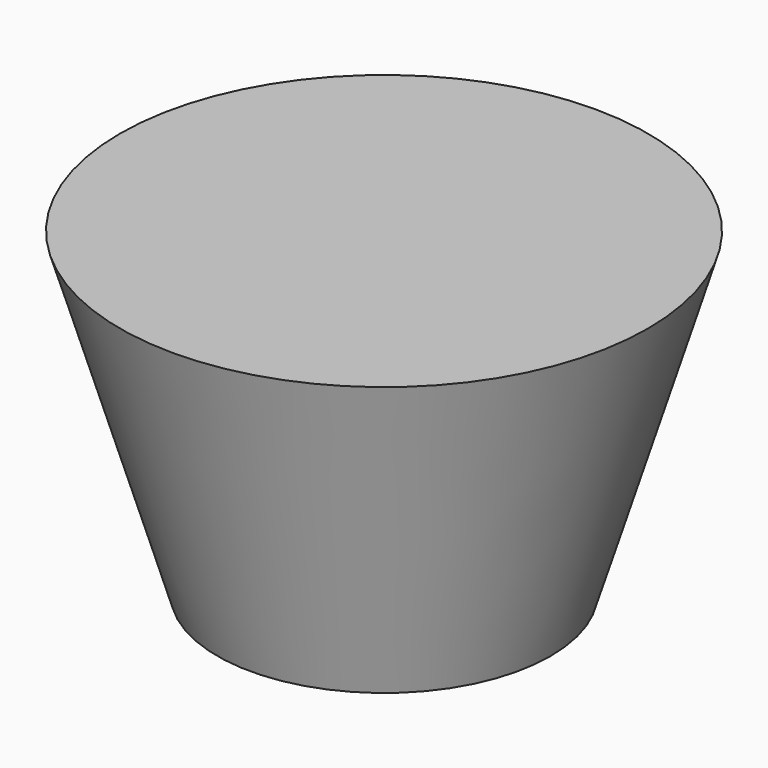
from build123d import *

# Parameters (mm, degrees)
F0_R = 198.4375
F2_R = 314.325
F4_T = -12.7


with BuildPart() as f3:
    # F0 (on Top) → F3 section 0
    with BuildSketch(Plane.XY):
        Circle(F0_R)
    # F2 (on offset) → F3 section 1
    with BuildSketch(Plane.XY.offset(381)):
        Circle(F2_R)
    loft()

    # F4 (hollow: no face is removed)
    offset(amount=F4_T, mode=Mode.SUBTRACT)


solid = f3.part
